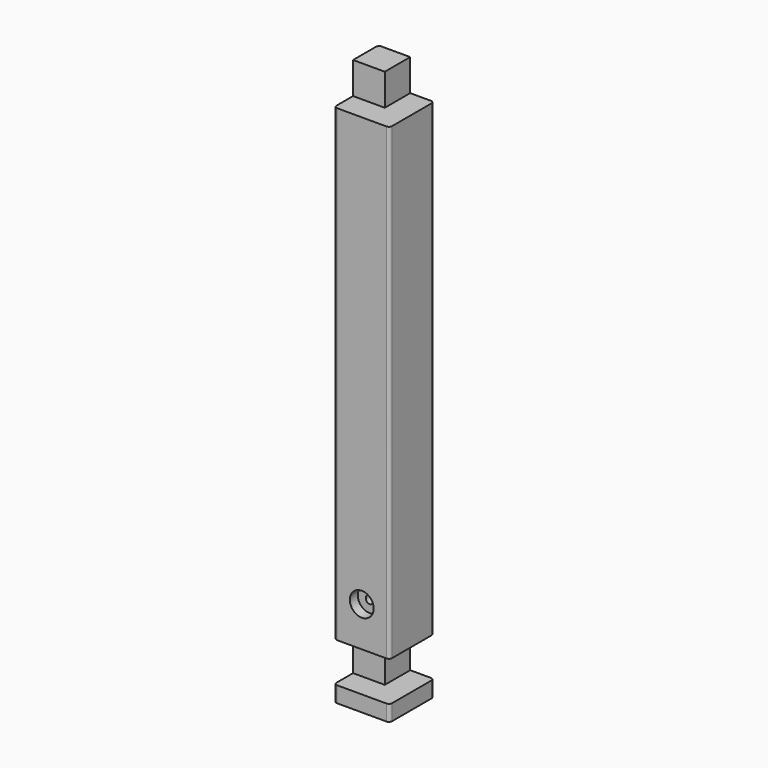
from build123d import *

# Parameters (mm, degrees)
F1_DEPTH      = 44.45
F2_R          = 5.08
F4_DEPTH      = 50.8
F5_R          = 6.35
F6_DEPTH      = 26.360464475
F6_DEPTH_BACK = 62.541535525
F7_R          = 19.05
F7_R_2        = 6.35
F8_DEPTH      = 15.875


with BuildPart() as f1:
    # F0 (on Right) → F1 (new body, symmetric)
    with BuildSketch(Plane.YZ):
        Polygon((26.359464475, -364.0086964671), (26.359464475, 524.9913035329), (-24.440535525, 524.9913035329), (-24.440535525, 474.1913035329), (-62.540535525, 474.1913035329), (-62.540535525, -275.1086964671), (-24.440535525, -275.1086964671), (-24.440535525, -338.6086964671), (-62.540535525, -338.6086964671), (-62.540535525, -364.0086964671), align=None)
    extrude(amount=F1_DEPTH, both=True)

    # F2
    f2_edges = [f1.edges().sort_by_distance(p)[0] for p in [
        (44.45, -62.540536, 99.541304),
        (44.45, -62.540536, -351.308696),
        (-44.45, -62.540536, -351.308696),
        (-44.45, -62.540536, 99.541304),
        (44.45, 26.359464, 80.491304),
        (-44.45, 26.359464, 80.491304),
    ]]
    fillet(f2_edges, radius=F2_R)

    # F3 (on Front) → F4 (cut, symmetric)
    with BuildSketch(Plane.XZ):
        Polygon((44.45, 474.1913035329), (44.45, 524.9913035329), (6.35, 524.9913035329), (6.35, 474.1913035329), (39.37, 474.1913035329), align=None)
        Polygon((44.45, -275.1086964671), (39.37, -275.1086964671), (6.35, -275.1086964671), (6.35, -338.6086964671), (39.37, -338.6086964671), (44.45, -338.6086964671), align=None)
    extrude(amount=F4_DEPTH, both=True, mode=Mode.SUBTRACT)

    # F5 (on Front) → F6 (cut, two sides)
    with BuildSketch(Plane.XZ) as f6_sk:
        with Locations((0, -211.6086964671)):
            Circle(F5_R)
    extrude(amount=-F6_DEPTH, mode=Mode.SUBTRACT)
    extrude(f6_sk.sketch, amount=F6_DEPTH_BACK, mode=Mode.SUBTRACT)

    # F7 (on face) → F8 (cut)
    with BuildSketch(Plane.XZ.offset(62.540535525)):
        with Locations((0, -211.6086964671)):
            Circle(F7_R)
        with Locations((0, -211.6086964671)):
            Circle(F7_R_2, mode=Mode.SUBTRACT)
    extrude(amount=-F8_DEPTH, mode=Mode.SUBTRACT)


solid = f1.part
